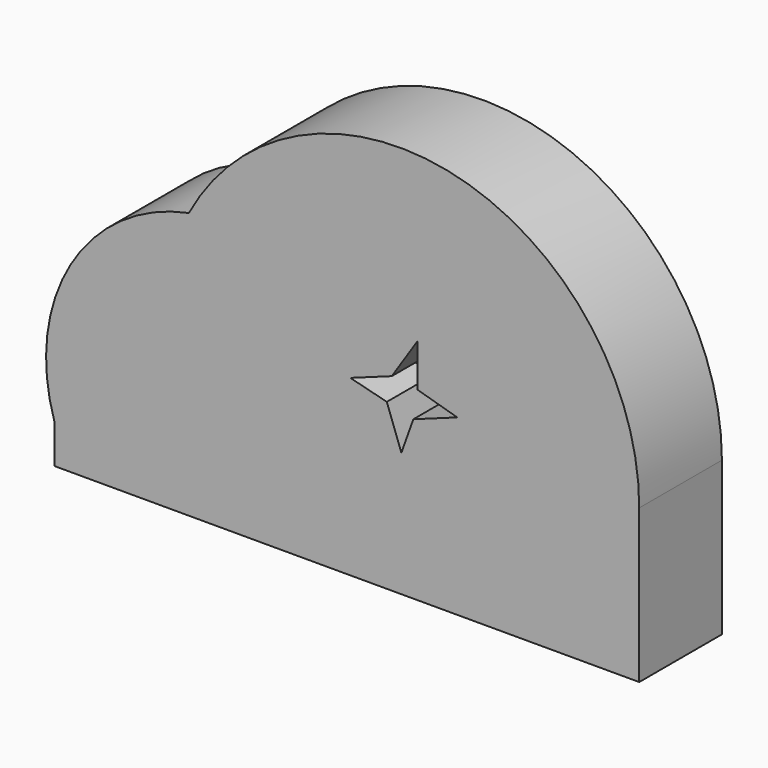
from build123d import *

# Parameters (mm, degrees)
F1_DEPTH = 29
F2_T     = -6
F3_DEPTH = 25


with BuildPart() as f1:
    # F0 (on Front) → F1 (new body, symmetric)
    with BuildSketch(Plane.XZ):
        with BuildLine():
            ThreePointArc((-120.8260423411, 51.4157625441), (-187.0617060927, 4.5833458701), (-196.3255107403, -76.005861395))
            Line((-196.3255107403, -76.005861395), (-196.3255107403, -98.1331872754))
            Line((-196.3255107403, -98.1331872754), (131.9251656532, -98.1331872754))
            Line((131.9251656532, -98.1331872754), (131.9251656532, -12.0712618296))
            ThreePointArc((131.9251656532, -12.0712618296), (30.305701886, 118.2300959975), (-120.8260423411, 51.4157625441))
        make_face()
        Polygon((-6.9567829963, 7.8355963742), (7.4647014605, 29.7945929541), (7.4647014605, 5.8520050569), (29.8372825252, -0.5733477102), (5.157555885, -9.4960665254), (-1.5632266534, -28.2956225947), (-9.7149439706, -5.7484417182), (-30.2154383046, -0.5733477102), align=None, mode=Mode.SUBTRACT)
    extrude(amount=F1_DEPTH, both=True)

    # F2
    f2_openings = [f1.faces().sort_by_distance(p)[0] for p in [
        (-24.069306, 29, -4.408664),
    ]]
    offset(amount=F2_T, openings=f2_openings, kind=Kind.INTERSECTION)

    # F3 (cut): a face of the model
    f3_faces = [f1.faces().sort_by_distance(p)[0] for p in [
        (2.4525988659, 29, 30.5693044377),
    ]]
    extrude(f3_faces, amount=-F3_DEPTH, mode=Mode.SUBTRACT)


solid = f1.part
